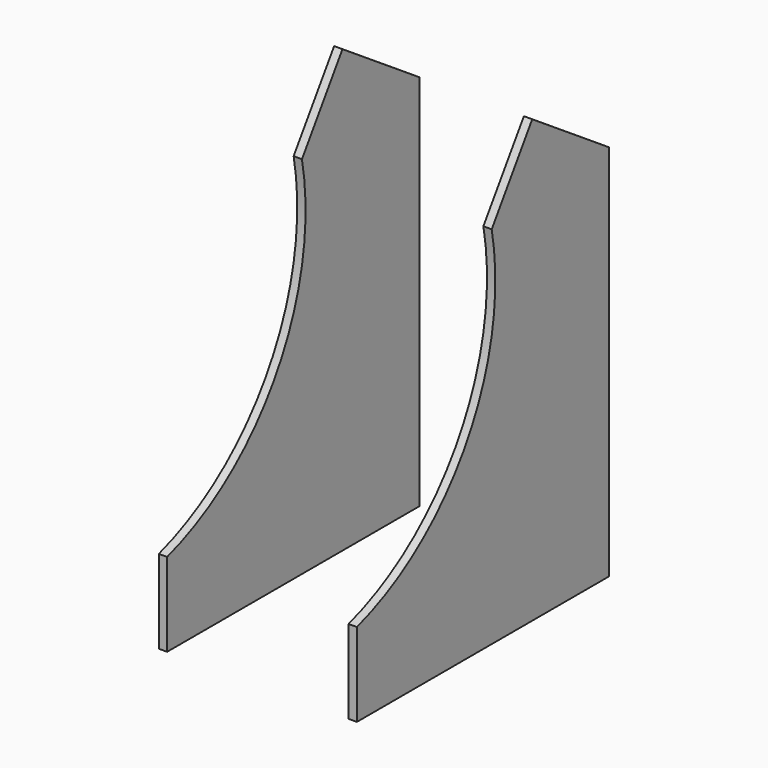
from build123d import *

# Parameters (mm, degrees)
F1_DEPTH = 12


with BuildPart() as f1:
    # F0 (on Right) → F1 (new body)
    with BuildSketch(Plane.YZ):
        with BuildLine():
            Line((-454.5, 0), (0, 0))
            Line((0, 0), (0, 544.3))
            Line((0, 544.3), (-138.654102, 636.3))
            Line((-138.654102, 636.3), (-211.634871, 526.309967))
            ThreePointArc((-211.634871, 526.309967), (-255.390406, 276.879057), (-454.5, 120.4))
            Line((-454.5, 120.4), (-454.5, 0))
        make_face()
    extrude(amount=F1_DEPTH)


with BuildPart() as f2_1:
    # F2: copy of F1
    add(f1.part.moved(Location((500, 0, 0))))


with BuildPart() as f2_1_1:
    # F3: moved
    add(f2_1.part.moved(Location((-773.493469, 0, 0))))


solid = Compound([f1.part, f2_1_1.part])
